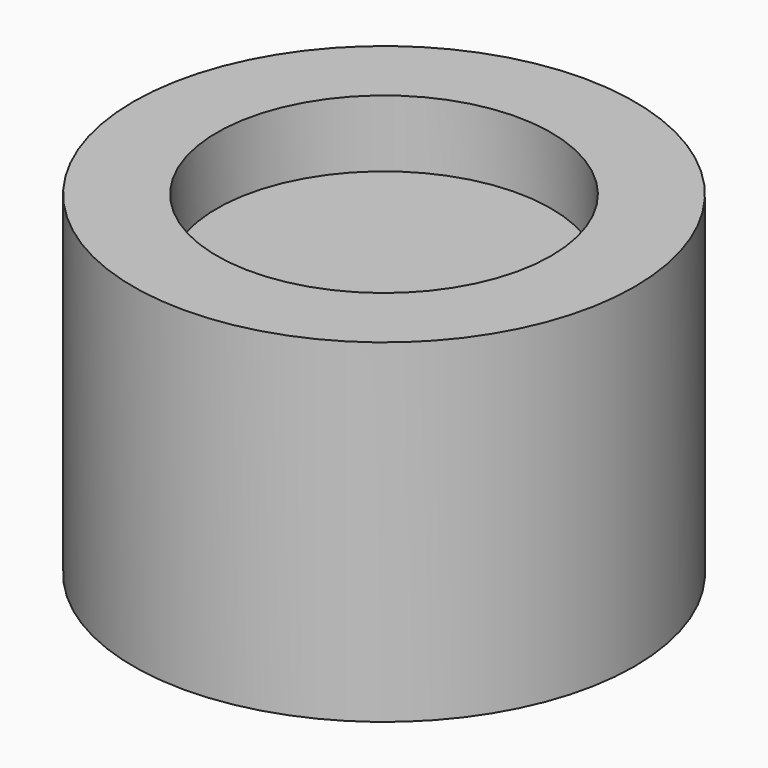
from build123d import *

# Parameters (mm, degrees)
SKETCH_R        = 7.5
PAD_DEPTH       = 10
SKETCH001_W     = 5
SKETCH001_H     = 11
POCKET_DEPTH    = 2
SKETCH002_R     = 5
POCKET001_DEPTH = 2


with BuildPart() as part:
    # Sketch → Pad (new body)
    with BuildSketch(Plane.XY):
        Circle(SKETCH_R)
    extrude(amount=PAD_DEPTH)

    # Sketch001 (on Face2 of Pad) → Pocket (cut)
    with BuildSketch(Plane(origin=(0, 0, 0), x_dir=(1, 0, 0), z_dir=(0, 0, -1))):
        Rectangle(SKETCH001_W, SKETCH001_H)
    extrude(amount=-POCKET_DEPTH, mode=Mode.SUBTRACT)

    # Sketch002 (on Face3 of Pocket) → Pocket001 (cut)
    with BuildSketch(Plane.XY.offset(10)):
        Circle(SKETCH002_R)
    extrude(amount=-POCKET001_DEPTH, mode=Mode.SUBTRACT)


solid = part.part
